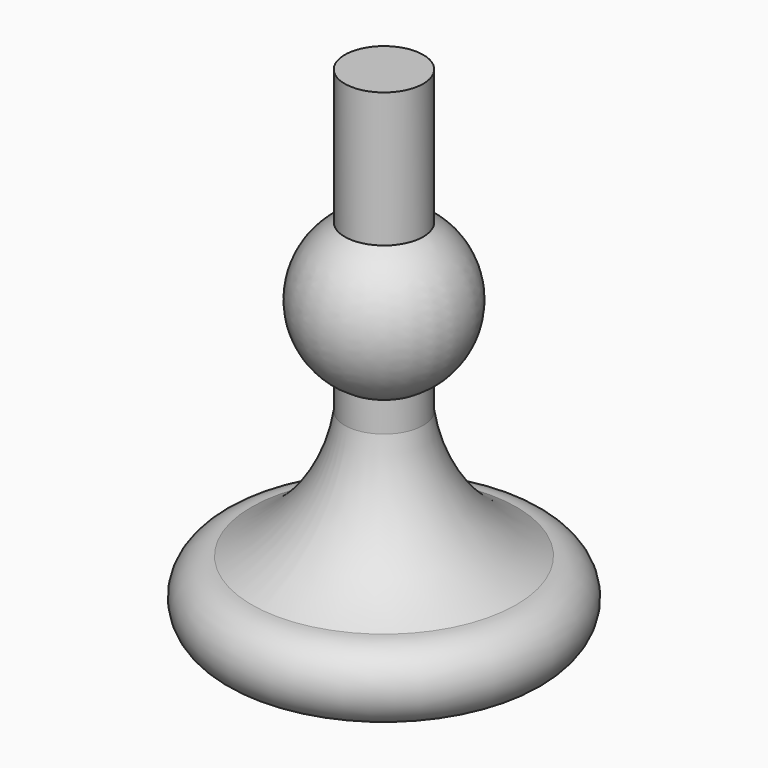
from build123d import *


with BuildPart() as f1:
    # F0 (on Front) → F1 (revolve)
    with BuildSketch(Plane.XZ):
        with BuildLine():
            Line((0, 115.220159), (0, 0))
            Line((0, 0), (30.449692, 0))
            ThreePointArc((30.449692, 0), (38.813962, 8.36427), (30.449692, 16.728539))
            ThreePointArc((30.449692, 16.728539), (16.066486, 28.708003), (9.022126, 46.05047))
            Line((9.022126, 46.05047), (9.022126, 52.974494))
            ThreePointArc((9.022126, 52.974494), (18.048174, 68.605803), (9.022126, 84.237112))
            Line((9.022126, 84.237112), (9.022126, 115.220159))
            Line((9.022126, 115.220159), (0, 115.220159))
        make_face()
    revolve(axis=Axis((0, 0, 57.61008), (0, 0, -1)))


solid = f1.part
